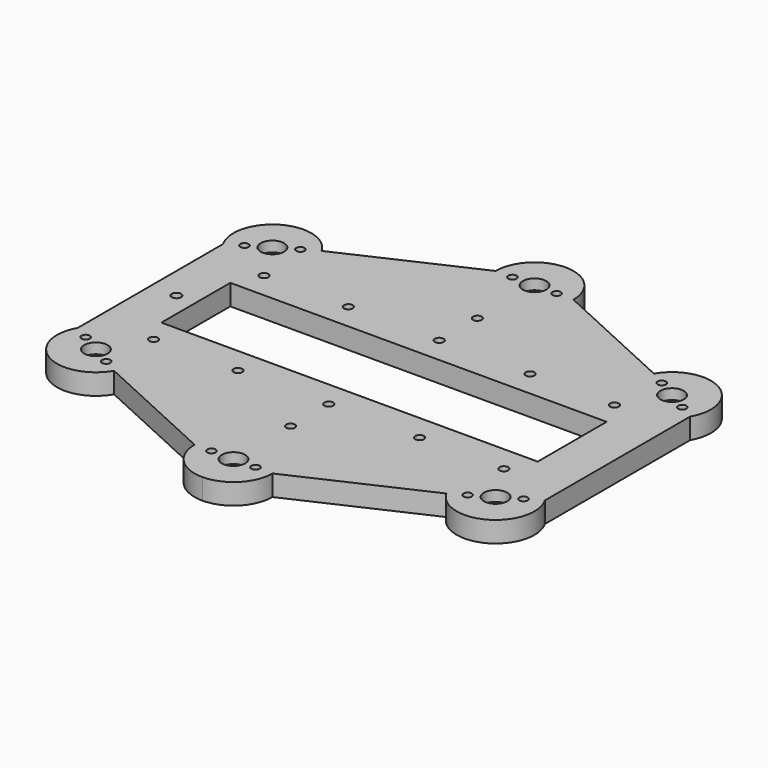
from build123d import *

# Parameters (mm, degrees)
F0_W      = 190
F0_H      = 175
F1_DEPTH  = 8
F2_R      = 4.5
F2_R_2    = 1.6
F3_DEPTH  = 8
F5_DEPTH  = 8.001
F6_R      = 12.2
F6_R_2    = 4.5
F7_DEPTH  = 4
F8_R      = 1.7
F8_W      = 145
F8_H      = 33.2
F8_R_2    = 1.8
F9_DEPTH  = 8.001
F10_ANGLE = 180


with BuildPart() as f1:
    # F0 (on Top) → F1 (new body)
    with BuildSketch(Plane.XY):
        Rectangle(F0_W, F0_H)
    extrude(amount=F1_DEPTH)

    # F2 (on face) → F3 (cut)
    with BuildSketch(Plane.XY.offset(8)):
        with Locations((0, 72.5)):
            Circle(F2_R)
        with Locations((-77, 42.5)):
            Circle(F2_R)
        with Locations((8.5, 72.5)):
            Circle(F2_R_2)
        with Locations((-8.5, 72.5)):
            Circle(F2_R_2)
        with Locations((-84.361216, 38.25)):
            Circle(F2_R_2)
        with Locations((-69.638784, 46.75)):
            Circle(F2_R_2)
        with Locations((77, 42.5)):
            Circle(F2_R)
        with Locations((84.361216, 38.25)):
            Circle(F2_R_2)
        with Locations((69.638784, 46.75)):
            Circle(F2_R_2)
        with Locations((-84.361216, -38.25)):
            Circle(F2_R_2)
        with Locations((-77, -42.5)):
            Circle(F2_R)
        with Locations((-69.638784, -46.75)):
            Circle(F2_R_2)
        with Locations((-8.5, -72.5)):
            Circle(F2_R_2)
        with Locations((0, -72.5)):
            Circle(F2_R)
        with Locations((8.5, -72.5)):
            Circle(F2_R_2)
        with Locations((69.638784, -46.75)):
            Circle(F2_R_2)
        with Locations((77, -42.5)):
            Circle(F2_R)
        with Locations((84.361216, -38.25)):
            Circle(F2_R_2)
    extrude(amount=-F3_DEPTH, mode=Mode.SUBTRACT)

    # F4 (on face) → F5 (cut, through all)
    with BuildSketch(Plane.XY.offset(8)):
        with BuildLine():
            Line((-64.009619, 50), (-15, 72.5))
            ThreePointArc((-15, 72.5), (-10.606602, 83.106602), (0, 87.5))
            Line((0, 87.5), (-95, 87.5))
            Line((-95, 87.5), (-95, -87.5))
            Line((-95, -87.5), (0, -87.5))
            ThreePointArc((0, -87.5), (-10.606602, -83.106602), (-15, -72.5))
            Line((-15, -72.5), (-64.009619, -50))
            ThreePointArc((-64.009619, -50), (-84.5, -55.490381), (-89.990381, -35))
            Line((-89.990381, -35), (-89.990381, 35))
            ThreePointArc((-89.990381, 35), (-84.5, 55.490381), (-64.009619, 50))
        make_face()
        with BuildLine():
            Line((95, 87.5), (0, 87.5))
            ThreePointArc((0, 87.5), (10.606602, 83.106602), (15, 72.5))
            Line((15, 72.5), (64.009619, 50))
            ThreePointArc((64.009619, 50), (84.5, 55.490381), (89.990381, 35))
            Line((89.990381, 35), (89.990381, -35))
            ThreePointArc((89.990381, -35), (84.5, -55.490381), (64.009619, -50))
            Line((64.009619, -50), (15, -72.5))
            ThreePointArc((15, -72.5), (10.606602, -83.106602), (0, -87.5))
            Line((0, -87.5), (95, -87.5))
            Line((95, -87.5), (95, 87.5))
        make_face()
    extrude(amount=-F5_DEPTH, mode=Mode.SUBTRACT)

    # F6 (on face) → F7 (cut)
    with BuildSketch(Plane.XY.offset(8)):
        with Locations((0, 72.5)):
            Circle(F6_R)
        with Locations((0, 72.5)):
            Circle(F6_R_2, mode=Mode.SUBTRACT)
        with Locations((-77, 42.5)):
            Circle(F6_R)
        with Locations((-77, 42.5)):
            Circle(F6_R_2, mode=Mode.SUBTRACT)
        with Locations((77, 42.5)):
            Circle(F6_R)
        with Locations((-77, -42.5)):
            Circle(F6_R)
        with Locations((0, -72.5)):
            Circle(F6_R)
        with Locations((77, -42.5)):
            Circle(F6_R)
    extrude(amount=-F7_DEPTH, mode=Mode.SUBTRACT)

    # F8 (on face) → F9 (cut, through all)
    with BuildSketch(Plane.XY.offset(8)):
        with Locations((0, 45)):
            Circle(F8_R)
        with Locations((0, 26.6)):
            Circle(F8_R)
        with Locations((-67.5, 26.6)):
            Circle(F8_R)
        with Locations((-35, 26.6)):
            Circle(F8_R)
        with Locations((35, 26.6)):
            Circle(F8_R)
        with Locations((67.5, 26.6)):
            Circle(F8_R)
        with Locations((67.5, -26.6)):
            Circle(F8_R)
        with Locations((35, -26.6)):
            Circle(F8_R)
        with Locations((0, -26.6)):
            Circle(F8_R)
        with Locations((0, -45)):
            Circle(F8_R)
        with Locations((-35, -26.6)):
            Circle(F8_R)
        with Locations((-67.5, -26.6)):
            Circle(F8_R)
        Rectangle(F8_W, F8_H)
        with Locations((-79.990381, 0)):
            Circle(F8_R_2)
    extrude(amount=-F9_DEPTH, mode=Mode.SUBTRACT)


with BuildPart() as f1_1:
    # F10: moved
    add(f1.part.rotate(Axis((0, 0, 0), (1, 0, 0)), F10_ANGLE))


with BuildPart() as f1_2:
    # F11: moved
    add(f1_1.part.moved(Location((0, 0, 56.2))))


with BuildPart() as f1_3:
    # F12: moved
    add(f1_2.part.moved(Location((0, 0, 4.8))))


solid = f1_3.part
